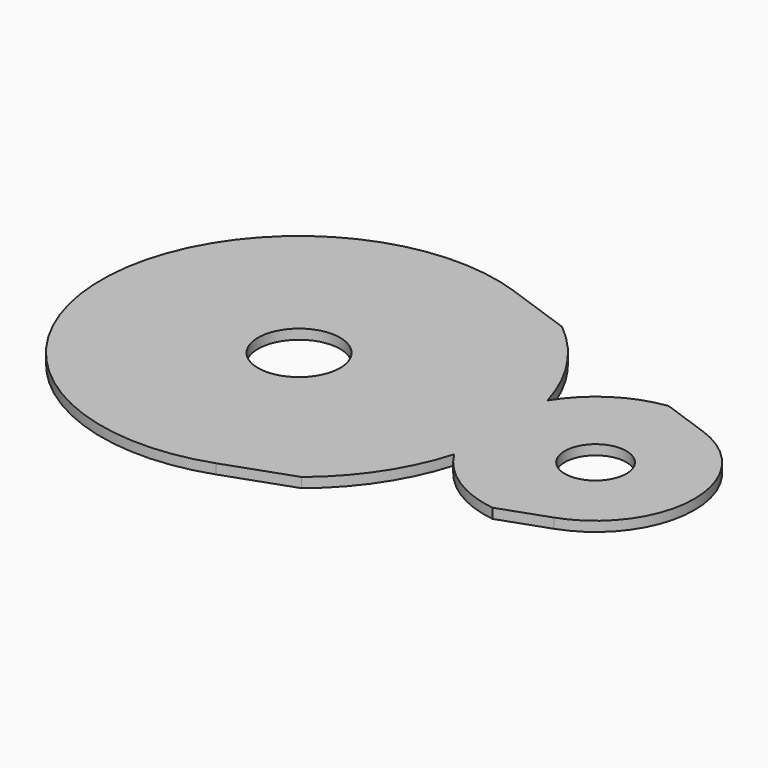
from build123d import *

# Parameters (mm, degrees)
EXTRUDE009_DEPTH = 4
SKETCH003_R      = 8.31
SKETCH003_R_2    = 6.23
EXTRUDE003_DEPTH = 2


with BuildPart() as obj1:
    # Sketch012 (on Face8 of Extrude002) → Extrude009 (new body)
    with BuildSketch(Plane.XY.offset(2)):
        with BuildLine():
            ThreePointArc((26.8733973411, -32.9252261245), (35.4651440174, -23.4195123738), (40.8333333333, -11.7851130198))
            ThreePointArc((40.8333333333, -11.7851130198), (47.7113101314, -18.8477611751), (56.9484135086, -22.2921021863))
            Line((56.9484135086, -22.2921021863), (26.8733973411, -32.9252261245))
        make_face()
        with BuildLine():
            ThreePointArc((56.9484135086, 22.2921021863), (47.7113101314, 18.8477611751), (40.8333333333, 11.7851130198))
            ThreePointArc((40.8333333333, 11.7851130198), (35.4651440174, 23.4195123738), (26.8733973411, 32.9252261245))
            Line((56.9484135086, 22.2921021863), (26.8733973411, 32.9252261245))
        make_face()
    extrude(amount=EXTRUDE009_DEPTH)


with BuildPart() as tampo:
    # Sketch003 (on Face5 of Cut) → Extrude003 (new body)
    with BuildSketch(Plane.XY.offset(4)):
        with BuildLine():
            ThreePointArc((13.3333333333, 37.7123616633), (-40, 0), (13.3333333333, -37.7123616633))
            Line((66.6666666667, -18.8561808316), (13.3333333333, -37.7123616633))
            ThreePointArc((66.6666666667, -18.8561808316), (80, 0), (66.6666666667, 18.8561808316))
            Line((13.3333333333, 37.7123616633), (66.6666666667, 18.8561808316))
        make_face()
        Circle(SKETCH003_R, mode=Mode.SUBTRACT)
        with Locations((60, 0)):
            Circle(SKETCH003_R_2, mode=Mode.SUBTRACT)
    extrude(amount=EXTRUDE003_DEPTH)

    # Cut003: cut obj1
    add(obj1.part, mode=Mode.SUBTRACT)


solid = tampo.part
